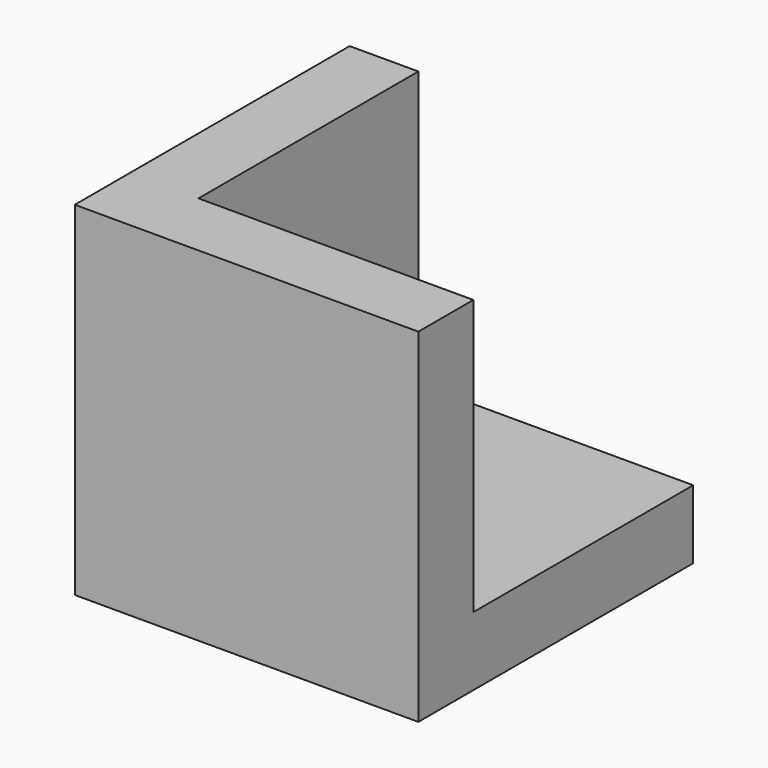
from build123d import *

# Parameters (mm, degrees)
BOX001_W     = 10
BOX001_H     = 10
BOX001_DEPTH = 10
BOX_W        = 10
BOX_H        = 10
BOX_DEPTH    = 10


with BuildPart() as cube_difference:
    # Box001 → Box001 (new body)
    with BuildSketch(Plane(origin=(2, 2, 2), x_dir=(1, 0, 0), z_dir=(0, 0, 1))):
        with Locations((5, 5)):
            Rectangle(BOX001_W, BOX001_H)
    extrude(amount=BOX001_DEPTH)


with BuildPart() as cut:
    # Box → Box (new body)
    with BuildSketch(Plane.XY):
        with Locations((5, 5)):
            Rectangle(BOX_W, BOX_H)
    extrude(amount=BOX_DEPTH)

    # Cut: cut Cube_difference
    add(cube_difference.part, mode=Mode.SUBTRACT)


solid = cut.part
